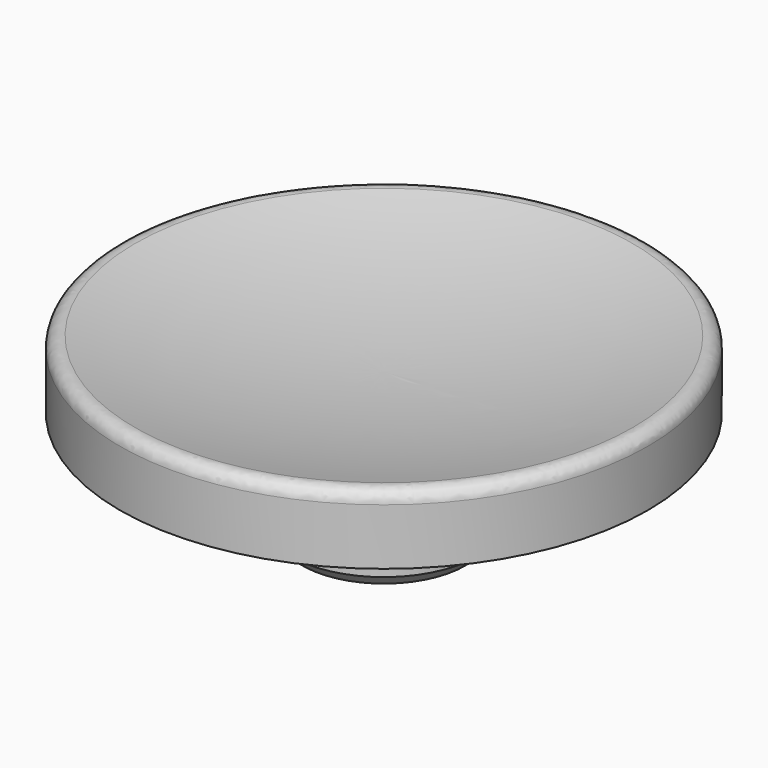
from build123d import *

# Parameters (mm, degrees)
F2_SIZE = 0.5
F3_R    = 0.5


with BuildPart() as f1:
    # F0 (on Front) → F1 (revolve)
    with BuildSketch(Plane.XZ):
        with BuildLine():
            Line((0, 6), (0, 0))
            Line((0, 0), (3.9, 0))
            Line((3.9, 0), (3.9, 3.5))
            Line((3.9, 3.5), (5.5, 3.5))
            Line((5.5, 3.5), (5.5, 4.5))
            Line((5.5, 4.5), (11, 4.5))
            Line((11, 4.5), (11, 7.5))
            ThreePointArc((11, 7.5), (5.550901, 6.376727), (0, 6))
        make_face()
    revolve(axis=Axis((0, 0, 8.827069), (0, 0, 1)))

    # F2
    f2_edges = [f1.edges().sort_by_distance(p)[0] for p in [
        (-3.9, 0, 0),
    ]]
    chamfer(f2_edges, length=F2_SIZE)

    # F3
    f3_edges = [f1.edges().sort_by_distance(p)[0] for p in [
        (-11, 0, 7.5),
    ]]
    fillet(f3_edges, radius=F3_R)


solid = f1.part
